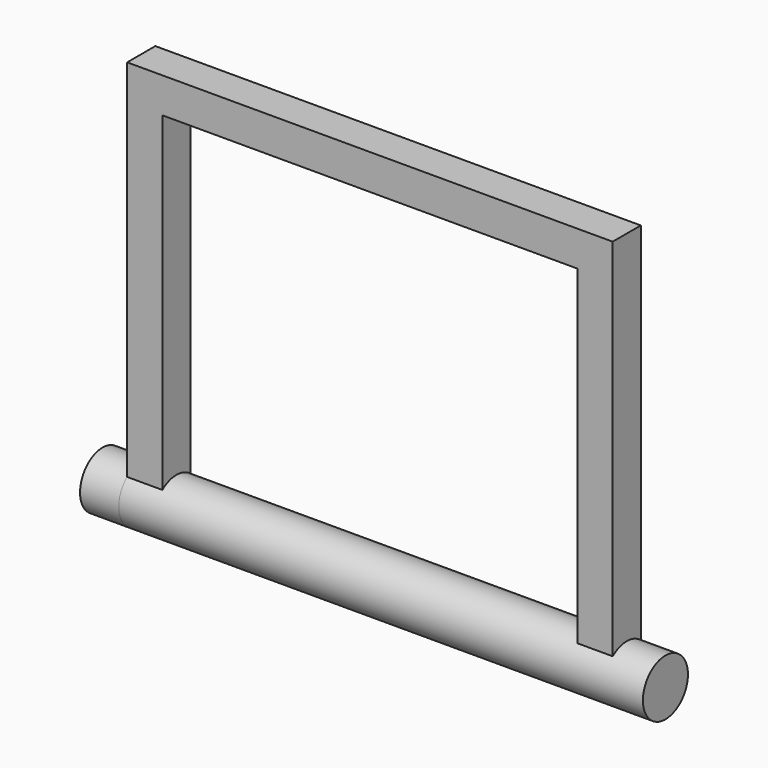
from build123d import *

# Parameters (mm, degrees)
SKETCH_W          = 138
SKETCH_H          = 10
PAD_DEPTH         = 10
SKETCH001_W       = 10
SKETCH001_H       = 10
PAD001_DEPTH      = 100
SKETCH002_R       = 8
PAD002_DEPTH      = 11
PAD002_DEPTH_BACK = 149


with BuildPart() as part:
    # Sketch → Pad (new body)
    with BuildSketch(Plane(origin=(0, 0, 110), x_dir=(1, 0, 0), z_dir=(0, 0, -1))):
        Rectangle(SKETCH_W, SKETCH_H)
    extrude(amount=PAD_DEPTH)

    # Sketch001 → Pad001 (new body)
    with BuildSketch(Plane(origin=(0, 0, 100), x_dir=(1, 0, 0), z_dir=(0, 0, -1))):
        with Locations((-64, 0)):
            Rectangle(SKETCH001_W, SKETCH001_H)
    pad001 = extrude(amount=PAD001_DEPTH)

    # Mirrored: Pad001 across Sketch001 V_Axis
    add(pad001.mirror(Plane(origin=(0, 0, 100), x_dir=(0, 0, -1), z_dir=(1, 0, 0))))

    # Sketch002 → Pad002 (new body, two sides)
    with BuildSketch(Plane(origin=(-69, 0, 110), x_dir=(0, 1, 0), z_dir=(-1, 0, 0))) as pad002_sk:
        with Locations((0, 110)):
            Circle(SKETCH002_R)
    extrude(amount=PAD002_DEPTH)
    extrude(pad002_sk.sketch, amount=-PAD002_DEPTH_BACK)


solid = part.part
